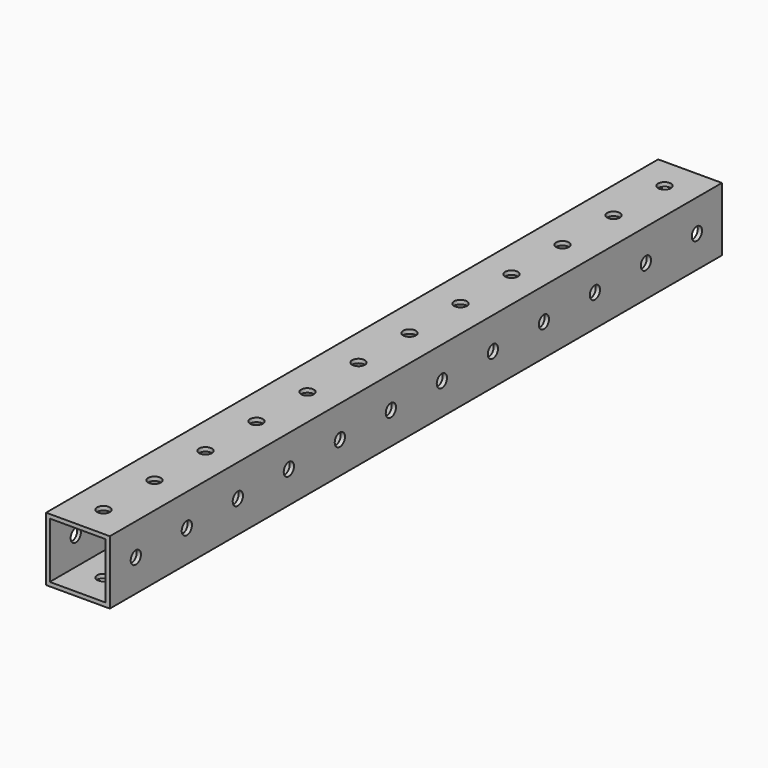
from build123d import *

# Parameters (mm, degrees)
F0_W     = 304.8
F0_H     = 25.4
F1_DEPTH = 25.4
F2_W     = 22.225
F2_H     = 22.225
F3_DEPTH = 304.8
F4_R     = 2.5527
F5_DEPTH = 25.4
F6_R     = 2.5527
F7_DEPTH = 25.4


with BuildPart() as f1:
    # F0 (on Right) → F1 (new body)
    with BuildSketch(Plane.YZ):
        with Locations((78.871952, 17.516105)):
            Rectangle(F0_W, F0_H)
    extrude(amount=F1_DEPTH)

    # F2 (on face) → F3 (cut)
    with BuildSketch(Plane.XZ.offset(73.528048)):
        with Locations((12.586378, 17.516105)):
            Rectangle(F2_W, F2_H)
    extrude(amount=-F3_DEPTH, mode=Mode.SUBTRACT)

    # F4 (on face) → F5 (cut)
    with BuildSketch(Plane.XY.offset(30.216105)):
        with Locations((12.7, -60.828048)):
            Circle(F4_R)
        with Locations((12.7, -35.428048)):
            Circle(F4_R)
        with Locations((12.7, -10.028048)):
            Circle(F4_R)
        with Locations((12.7, 15.371952)):
            Circle(F4_R)
        with Locations((12.7, 40.771952)):
            Circle(F4_R)
        with Locations((12.7, 66.171952)):
            Circle(F4_R)
        with Locations((12.7, 91.571952)):
            Circle(F4_R)
        with Locations((12.7, 116.971952)):
            Circle(F4_R)
        with Locations((12.7, 142.371952)):
            Circle(F4_R)
        with Locations((12.7, 167.771952)):
            Circle(F4_R)
        with Locations((12.7, 193.171952)):
            Circle(F4_R)
        with Locations((12.7, 218.571952)):
            Circle(F4_R)
    extrude(amount=-F5_DEPTH, mode=Mode.SUBTRACT)

    # F6 (on face) → F7 (cut)
    with BuildSketch(Plane(origin=(0, 0, 0), x_dir=(0, -1, 0), z_dir=(-1, 0, 0))):
        with Locations((60.584806, 17.516105)):
            Circle(F6_R)
        with Locations((35.184806, 17.516105)):
            Circle(F6_R)
        with Locations((9.784806, 17.516105)):
            Circle(F6_R)
        with Locations((-15.615194, 17.516105)):
            Circle(F6_R)
        with Locations((-41.015194, 17.516105)):
            Circle(F6_R)
        with Locations((-66.415194, 17.516105)):
            Circle(F6_R)
        with Locations((-91.815194, 17.516105)):
            Circle(F6_R)
        with Locations((-117.215194, 17.516105)):
            Circle(F6_R)
        with Locations((-142.615194, 17.516105)):
            Circle(F6_R)
        with Locations((-168.015194, 17.516105)):
            Circle(F6_R)
        with Locations((-193.415194, 17.516105)):
            Circle(F6_R)
        with Locations((-218.815194, 17.516105)):
            Circle(F6_R)
    extrude(amount=-F7_DEPTH, mode=Mode.SUBTRACT)


solid = f1.part
